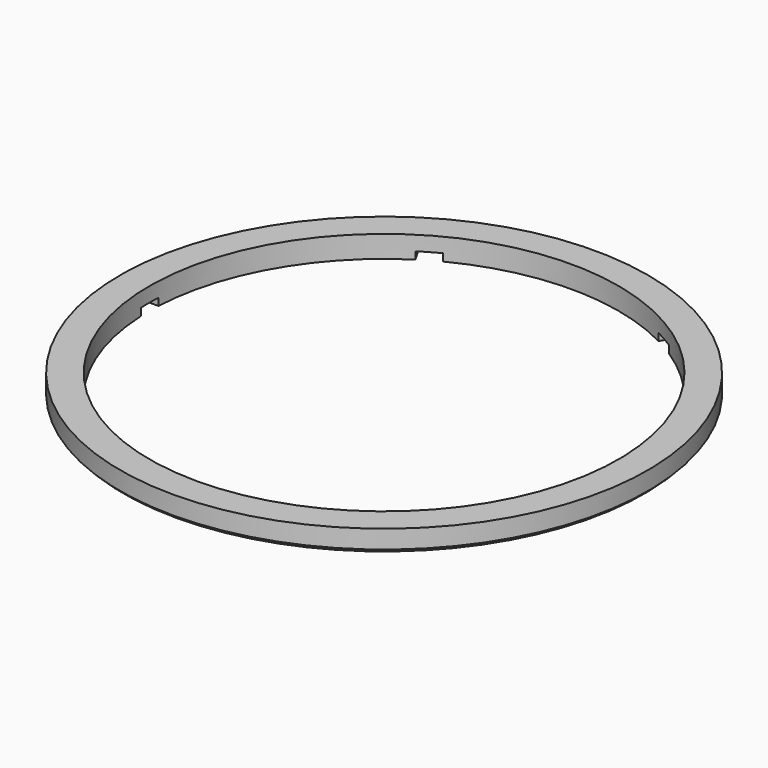
from build123d import *

# Parameters (mm, degrees)
POCKET003_DEPTH         = 0.5
POLARPATTERN_COUNT      = 6
BODY003_PLACEMENT_ANGLE = 180


with BuildPart() as part:
    # Sketch022 → Revolution003 (revolve)
    with BuildSketch(Plane.YZ):
        Polygon((16, 0), (18, 0), (18, 1.25), (17.75, 1.5), (16, 1.5), align=None)
    revolve(axis=Axis((0, 0, 0), (0, 0, 1)))

    # Sketch023 (on Face4 of Revolution003) → Pocket003 (cut)
    with BuildSketch(Plane(origin=(0, 0, 1.5), x_dir=(0, -1, 0), z_dir=(0, 0, 1))):
        with BuildLine():
            Line((-0.75, 15.982412), (-0.75, 17.482412))
            ThreePointArc((0.75, 17.482412), (0, 17.498492), (-0.75, 17.482412))
            Line((0.75, 15.982412), (0.75, 17.482412))
            Line((-0.75, 15.982412), (0.75, 15.982412))
        make_face()
    pocket003 = extrude(amount=-POCKET003_DEPTH, mode=Mode.SUBTRACT)

    # PolarPattern: Pocket003 ×6 about axis
    polarpattern_axis = Axis((0, 0, 1.5), (0, 0, 1))
    for i in range(1, POLARPATTERN_COUNT):
        add(pocket003.rotate(polarpattern_axis, i * 360 / POLARPATTERN_COUNT), mode=Mode.SUBTRACT)


with BuildPart() as part_1:
    # Body003 placement: moved
    add(part.part.moved(Location((0, 0, 0))).rotate(Axis((0, 0, 0), (1, 0, 0)), BODY003_PLACEMENT_ANGLE))


solid = part_1.part
